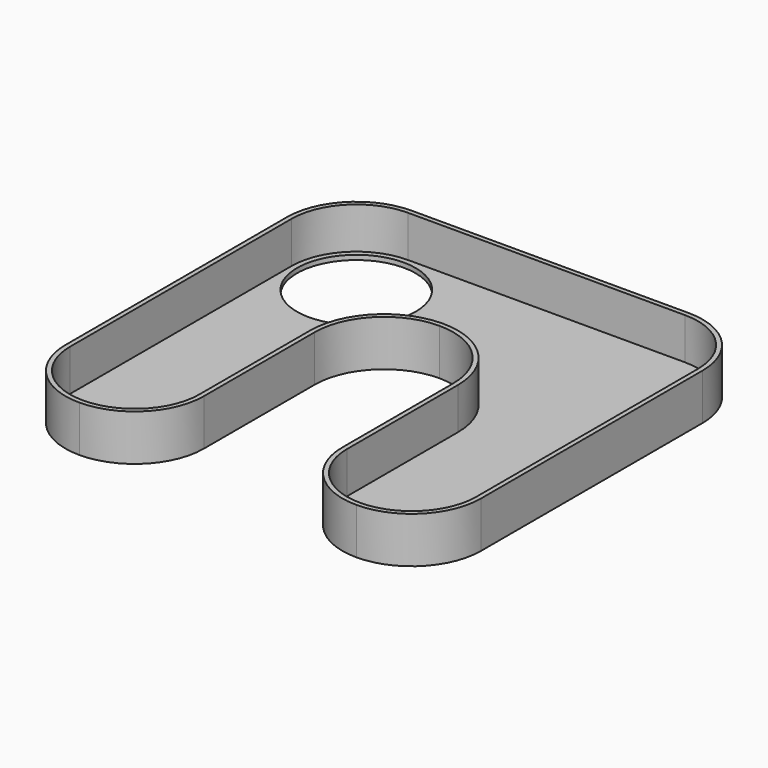
from build123d import *

# Parameters (mm, degrees)
F1_DEPTH = 10
F2_T     = -1
F3_R     = 12.840511
F4_DEPTH = 25


with BuildPart() as f1:
    # F0 (on Top) → F1 (new body)
    with BuildSketch(Plane.XY):
        with BuildLine():
            Line((-4.188098, 34.173166), (-64.188098, 34.173166))
            ThreePointArc((-64.188098, 34.173166), (-74.7947, 29.779768), (-79.188098, 19.173166))
            Line((-79.188098, 19.173166), (-79.188098, -40.826834))
            ThreePointArc((-79.188098, -40.826834), (-74.7947, -51.433435), (-64.188098, -55.826834))
            ThreePointArc((-64.188098, -55.826834), (-53.581496, -51.433435), (-49.188098, -40.826834))
            Line((-49.188098, -40.826834), (-49.188098, -10.826834))
            ThreePointArc((-49.188098, -10.826834), (-44.7947, -0.220232), (-34.188098, 4.173166))
            ThreePointArc((-34.188098, 4.173166), (-23.581496, -0.220232), (-19.188098, -10.826834))
            Line((-19.188098, -10.826834), (-19.188098, -40.826834))
            ThreePointArc((-19.188098, -40.826834), (-14.7947, -51.433435), (-4.188098, -55.826834))
            ThreePointArc((-4.188098, -55.826834), (6.418504, -51.433435), (10.811902, -40.826834))
            Line((10.811902, -40.826834), (10.811902, 19.173166))
            ThreePointArc((10.811902, 19.173166), (6.418504, 29.779768), (-4.188098, 34.173166))
        make_face()
    extrude(amount=F1_DEPTH)

    # F2
    f2_openings = [f1.faces().sort_by_distance(p)[0] for p in [
        (-4.188098, -54.554042, 10),
    ]]
    offset(amount=F2_T, openings=f2_openings)

    # F3 (on face) → F4 (cut)
    with BuildSketch(Plane.XY.offset(1)):
        with Locations((-64.188098, 19.173166)):
            Circle(F3_R)
    extrude(amount=-F4_DEPTH, mode=Mode.SUBTRACT)


solid = f1.part
